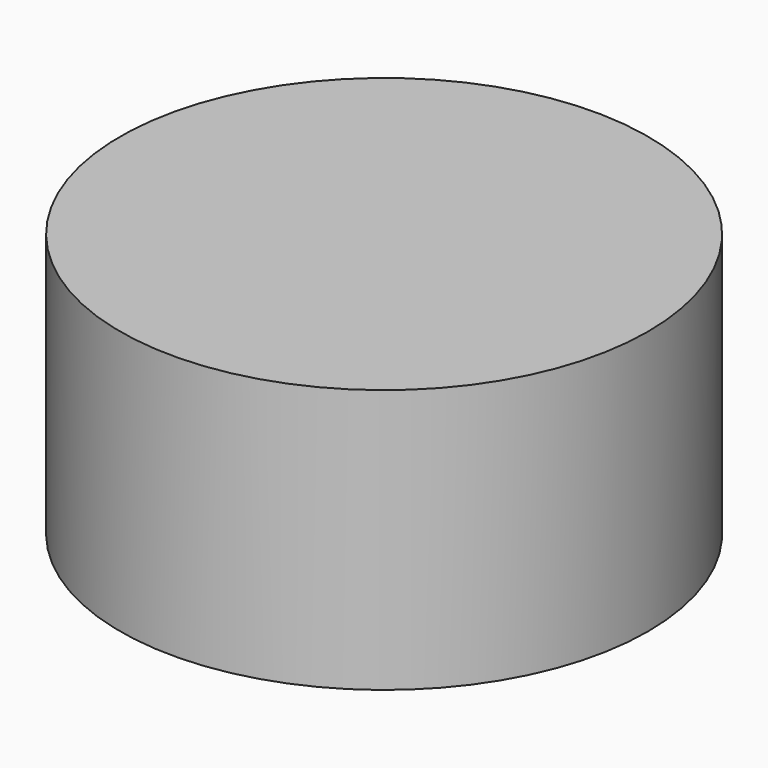
from build123d import *

# Parameters (mm, degrees)
SKETCH_R  = 25
PAD_DEPTH = 12.5


with BuildPart() as part:
    # Sketch → Pad (new body, symmetric)
    with BuildSketch(Plane.XY):
        Circle(SKETCH_R)
    extrude(amount=PAD_DEPTH, both=True)


solid = part.part
